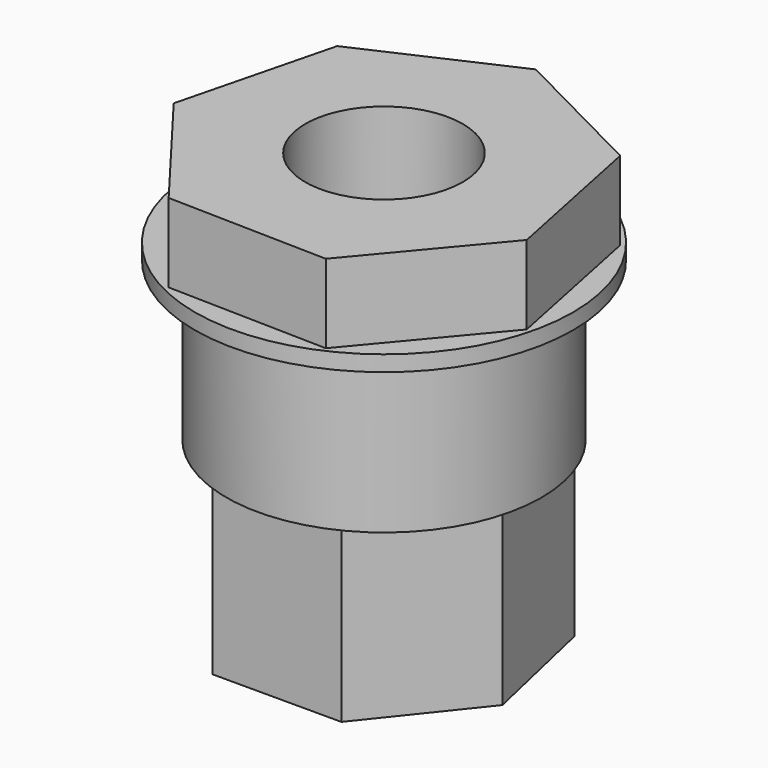
from build123d import *

# Parameters (mm, degrees)
F0_R     = 10
F0_R_2   = 5
F1_DEPTH = 16
F0_R_3   = 12
F2_DEPTH = 11
F3_DEPTH = 10
F4_DEPTH = 10
F5_DEPTH = 11


with BuildPart() as f1:
    # F0 (on Top) → F1 (new body)
    with BuildSketch(Plane.XY):
        Polygon((4.8361202547, -10.664289076), (11.3529485972, -2.8680444149), (9.320775088, 7.0878961882), (0.2698678284, 11.7065063948), (-8.9842554103, 7.5098785169), (-11.4730510796, -2.3418410578), (-5.3224052784, -10.4301065511), align=None)
        Circle(F0_R, mode=Mode.SUBTRACT)
        Circle(F0_R)
        Polygon((9.1977509421, -2.0993266316), (4.0933842599, -8.5), (-4.0933842599, -8.5), (-9.1977509421, -2.0993266316), (-7.376023565, 5.8821825089), (0, 9.4342882455), (7.376023565, 5.8821825089), align=None, mode=Mode.SUBTRACT)
        Polygon((-4.0933842599, -8.5), (4.0933842599, -8.5), (9.1977509421, -2.0993266316), (7.376023565, 5.8821825089), (0, 9.4342882455), (-7.376023565, 5.8821825089), (-9.1977509421, -2.0993266316), align=None)
        Circle(F0_R_2, mode=Mode.SUBTRACT)
    extrude(amount=F1_DEPTH)

    # F0 (on Top) → F2 (join)
    with BuildSketch(Plane.XY):
        Circle(F0_R_3)
        Polygon((9.320775088, 7.0878961882), (11.3529485972, -2.8680444149), (4.8361202547, -10.664289076), (-5.3224052784, -10.4301065511), (-11.4730510796, -2.3418410578), (-8.9842554103, 7.5098785169), (0.2698678284, 11.7065063948), align=None, mode=Mode.SUBTRACT)
    extrude(amount=F2_DEPTH)

    # F0 (on Top) → F3 (cut)
    with BuildSketch(Plane.XY):
        Circle(F0_R_3)
        Polygon((9.320775088, 7.0878961882), (11.3529485972, -2.8680444149), (4.8361202547, -10.664289076), (-5.3224052784, -10.4301065511), (-11.4730510796, -2.3418410578), (-8.9842554103, 7.5098785169), (0.2698678284, 11.7065063948), align=None, mode=Mode.SUBTRACT)
    extrude(amount=F3_DEPTH, mode=Mode.SUBTRACT)

    # F0 (on Top) → F4 (cut)
    with BuildSketch(Plane.XY):
        Polygon((4.8361202547, -10.664289076), (11.3529485972, -2.8680444149), (9.320775088, 7.0878961882), (0.2698678284, 11.7065063948), (-8.9842554103, 7.5098785169), (-11.4730510796, -2.3418410578), (-5.3224052784, -10.4301065511), align=None)
        Circle(F0_R, mode=Mode.SUBTRACT)
    extrude(amount=F4_DEPTH, mode=Mode.SUBTRACT)

    # F0 (on Top) → F5 (join)
    with BuildSketch(Plane.XY):
        Polygon((-4.0933842599, -8.5), (4.0933842599, -8.5), (9.1977509421, -2.0993266316), (7.376023565, 5.8821825089), (0, 9.4342882455), (-7.376023565, 5.8821825089), (-9.1977509421, -2.0993266316), align=None)
        Circle(F0_R_2, mode=Mode.SUBTRACT)
    extrude(amount=-F5_DEPTH)


solid = f1.part
